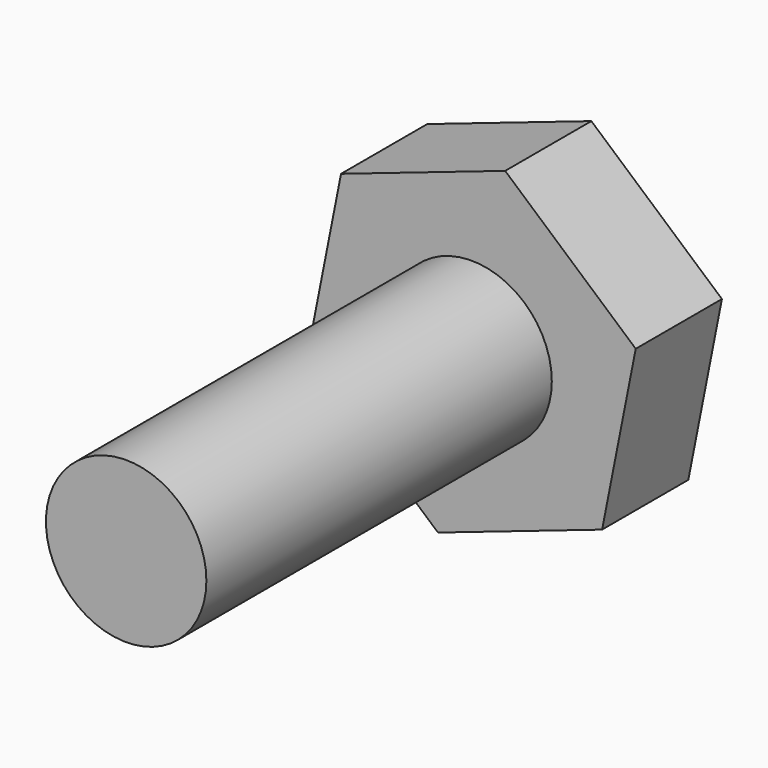
from build123d import *

# Parameters (mm, degrees)
F1_DEPTH = 34.29
F2_R     = 25.531281
F3_DEPTH = 137.414
F4_R     = 11.71201
F5_DEPTH = 168.402


with BuildPart() as f1:
    # F0 (on Front) → F1 (new body)
    with BuildSketch(Plane.XZ):
        Polygon((52.237316, 17.813952), (10.691323, 54.145819), (-41.545993, 36.331867), (-52.237316, -17.813952), (-10.691323, -54.145819), (41.545993, -36.331867), align=None)
    extrude(amount=-F1_DEPTH)

    # F2 (on face) → F3 (join)
    with BuildSketch(Plane.XZ):
        Circle(F2_R)
    extrude(amount=F3_DEPTH)

    # F4 (on face) → F5 (join)
    with BuildSketch(Plane.XZ.offset(137.414)):
        Circle(F4_R)
    extrude(amount=-F5_DEPTH)


solid = f1.part
